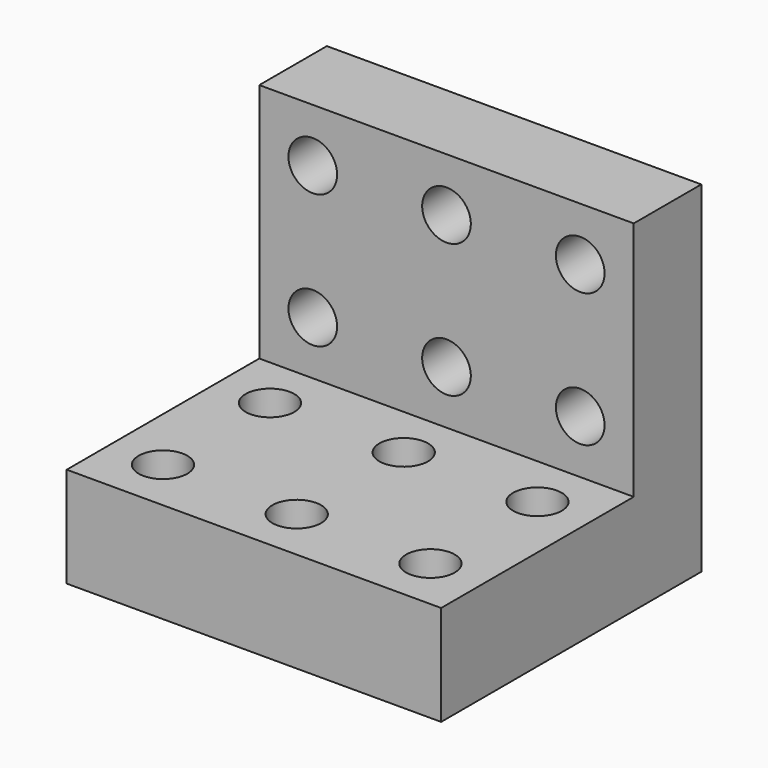
from build123d import *

# Parameters (mm, degrees)
F0_R     = 2.3114
F1_DEPTH = 9.525
F0_W     = 35.56
F0_H     = 8.0197834706
F2_DEPTH = 32.385
F3_R     = 2.3114
F4_DEPTH = 25.4


with BuildPart() as f1:
    # F0 (on Top) → F1 (new body)
    with BuildSketch(Plane.XY):
        Polygon((-10.273542943, 15.6310927123), (-45.833542943, 15.6310927123), (-45.833542943, 13.4908761829), (-45.833542943, -7.2289072877), (-10.273542943, -7.2289072877), align=None)
        with Locations((-40.753542943, -2.1489072877)):
            Circle(F0_R, mode=Mode.SUBTRACT)
        with Locations((-28.053542943, -2.1489072877)):
            Circle(F0_R, mode=Mode.SUBTRACT)
        with Locations((-15.353542943, -2.1489072877)):
            Circle(F0_R, mode=Mode.SUBTRACT)
        with Locations((-40.753542943, 10.5510927123)):
            Circle(F0_R, mode=Mode.SUBTRACT)
        with Locations((-28.053542943, 10.5510927123)):
            Circle(F0_R, mode=Mode.SUBTRACT)
        with Locations((-15.353542943, 10.5510927123)):
            Circle(F0_R, mode=Mode.SUBTRACT)
    extrude(amount=F1_DEPTH)

    # F0 (on Top) → F2 (join)
    with BuildSketch(Plane.XY):
        with Locations((-28.053542943, 19.6409844476)):
            Rectangle(F0_W, F0_H)
    extrude(amount=F2_DEPTH)

    # F3 (on face) → F4 (cut)
    with BuildSketch(Plane.XZ.offset(-15.6310927123)):
        with Locations((-40.753542943, 27.305)):
            Circle(F3_R)
        with Locations((-28.053542943, 27.305)):
            Circle(F3_R)
        with Locations((-15.353542943, 27.305)):
            Circle(F3_R)
        with Locations((-15.353542943, 14.605)):
            Circle(F3_R)
        with Locations((-28.053542943, 14.605)):
            Circle(F3_R)
        with Locations((-40.753542943, 14.605)):
            Circle(F3_R)
    extrude(amount=-F4_DEPTH, mode=Mode.SUBTRACT)


solid = f1.part
